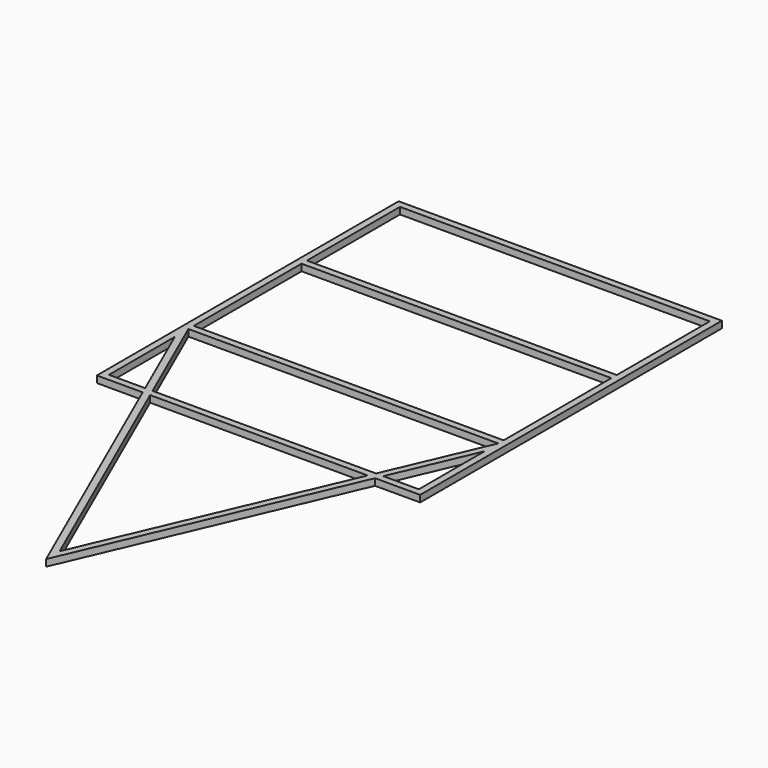
from build123d import *

# Parameters (mm, degrees)
F1_DEPTH = 76.2
F0_W     = 3505.2
F0_H     = 76.2
F2_DEPTH = 76.2
F3_DEPTH = 76.2


with BuildPart() as f1:
    # F0 (on Top) → F1 (new body)
    with BuildSketch(Plane.XY):
        Polygon((1828.8, -2133.6), (1828.8, 2133.6), (-1828.8, 2133.6), (-1828.8, -2133.6), (-1310.4772827011, -2133.6), (-1343.9009678839, -2057.4), (-1752.6, -2057.4), (-1752.6, -1125.6396008411), (-1752.6, -934.4842076221), (-1752.6, -858.2842076221), (-1752.6, 665.7157923779), (-1752.6, 741.9157923779), (-1752.6, 2057.4), (1752.6, 2057.4), (1752.6, 741.9157923779), (1752.6, 665.7157923779), (1752.6, -858.2842076221), (1752.6, -934.4842076221), (1752.6, -1125.6396008411), (1752.6, -2057.4), (1351.3082711616, -2057.4), (1318.4903602855, -2133.6), align=None)
    extrude(amount=F1_DEPTH)

    # F0 (on Top) → F2 (join)
    with BuildSketch(Plane.XY):
        Polygon((16.0273923486, -5157.7924457489), (1318.4903602855, -2133.6), (1235.9730884481, -2133.6), (15.7046937593, -4965.9013576965), (-1226.6305939355, -2133.6), (-1310.4772827011, -2133.6), align=None)
        Polygon((-1343.9009678839, -2057.4), (-1310.4772827011, -2133.6), (-1226.6305939355, -2133.6), (-1260.0542791183, -2057.4), align=None)
        Polygon((-1752.6, -1125.6396008411), (-1343.9009678839, -2057.4), (-1260.0542791183, -2057.4), (-1752.6, -934.4842076221), align=None)
        Polygon((-1226.6305939355, -2133.6), (1235.9730884481, -2133.6), (1268.803087778, -2057.4), (-1260.0542791183, -2057.4), align=None)
        Polygon((1235.9730884481, -2133.6), (1318.4903602855, -2133.6), (1351.3082711616, -2057.4), (1268.803087778, -2057.4), align=None)
        Polygon((1268.803087778, -2057.4), (1351.3082711616, -2057.4), (1752.6, -1125.6396008411), (1752.6, -934.4842076221), align=None)
        with Locations((0, -896.3842076221)):
            Rectangle(F0_W, F0_H)
    extrude(amount=F2_DEPTH)

    # F0 (on Top) → F3 (join)
    with BuildSketch(Plane.XY):
        with Locations((0, 703.8157923779)):
            Rectangle(F0_W, F0_H)
    extrude(amount=F3_DEPTH)


solid = f1.part
